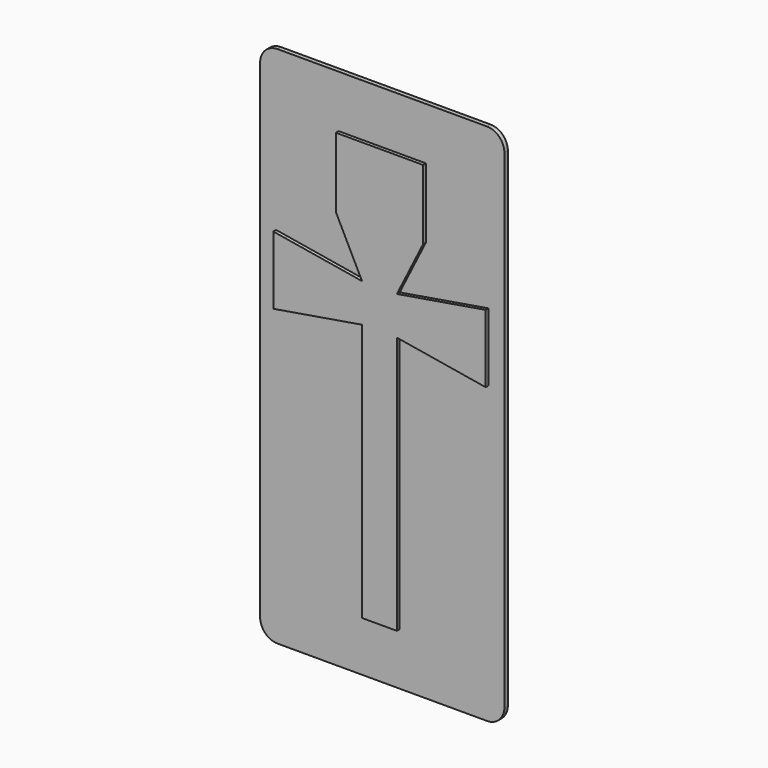
from build123d import *

# Parameters (mm, degrees)
F1_DEPTH = 3.175
F2_W     = 25.4
F2_H     = 152.4
F3_DEPTH = 2.54


with BuildPart() as f1:
    # F0 (on Front) → F1 (new body)
    with BuildSketch(Plane.XZ):
        with BuildLine():
            Line((76.2, 190.5), (-76.2, 190.5))
            ThreePointArc((-76.2, 190.5), (-85.180256, 186.780256), (-88.9, 177.8))
            Line((-88.9, 177.8), (-88.9, -177.8))
            ThreePointArc((-88.9, -177.8), (-85.180256, -186.780256), (-76.2, -190.5))
            Line((-76.2, -190.5), (76.2, -190.5))
            ThreePointArc((76.2, -190.5), (85.180256, -186.780256), (88.9, -177.8))
            Line((88.9, -177.8), (88.9, 177.8))
            ThreePointArc((88.9, 177.8), (85.180256, 186.780256), (76.2, 190.5))
        make_face()
        Polygon((-12.7, -152.4), (-12.7, 0), (-12.7, 35.532974), (-77.31542, 24.748182), (-77.31542, 74.284792), (-12.7, 63.5), (-31.75, 101.6), (-31.75, 152.4), (31.75, 152.4), (31.75, 101.6), (12.7, 63.5), (77.31542, 74.284792), (77.31542, 24.748182), (12.7, 35.532974), (12.7, 0), (12.7, -152.4), align=None, mode=Mode.SUBTRACT)
    extrude(amount=F1_DEPTH)


with BuildPart() as f3:
    # F2 (on face) → F3 (new body)
    with BuildSketch(Plane.XZ.offset(3.175)):
        Polygon((-12.7, 35.532974), (-12.7, 0), (12.7, 0), (12.7, 35.532974), (12.7, 63.5), (-12.7, 63.5), align=None)
        with Locations((0, -76.2)):
            Rectangle(F2_W, F2_H)
        Polygon((-77.31542, 24.748182), (-12.7, 35.532974), (-12.7, 63.5), (-77.31542, 74.284792), align=None)
        Polygon((12.7, 63.5), (12.7, 35.532974), (77.31542, 24.748182), (77.31542, 74.284792), align=None)
        Polygon((-31.75, 101.6), (-12.7, 63.5), (12.7, 63.5), (31.75, 101.6), (31.75, 152.4), (-31.75, 152.4), align=None)
    extrude(amount=F3_DEPTH)


solid = Compound([f1.part, f3.part])
